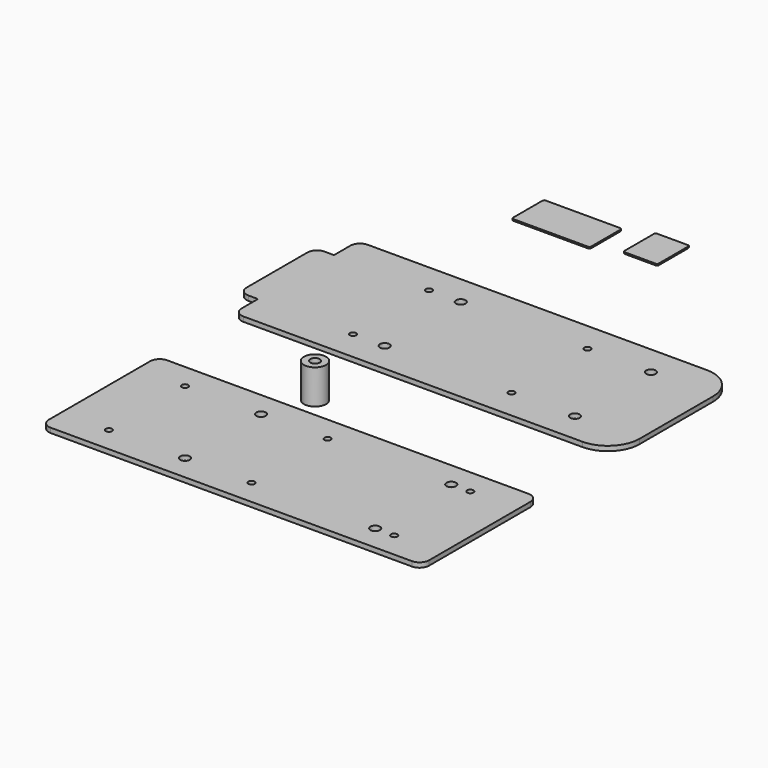
from build123d import *

# Parameters (mm, degrees)
F0_R     = 1
F0_R_2   = 1.5
F1_DEPTH = 1.5
F2_DEPTH = 1.5
F6_DEPTH = 0.5


with BuildPart() as f1:
    # F0 (on Top) → F1 (new body)
    with BuildSketch(Plane.XY):
        with BuildLine():
            Line((50, 64), (-57, 64))
            ThreePointArc((-57, 64), (-59.12132, 63.12132), (-60, 61))
            Line((-60, 61), (-60, 54.5))
            Line((-60, 54.5), (-63, 54.5))
            ThreePointArc((-63, 54.5), (-65.12132, 53.62132), (-66, 51.5))
            Line((-66, 51.5), (-66, 27.5))
            ThreePointArc((-66, 27.5), (-65.12132, 25.37868), (-63, 24.5))
            Line((-63, 24.5), (-60, 24.5))
            Line((-60, 24.5), (-60, 18))
            ThreePointArc((-60, 18), (-59.12132, 15.87868), (-57, 15))
            Line((-57, 15), (50, 15))
            ThreePointArc((50, 15), (57.071068, 17.928932), (60, 25))
            Line((60, 25), (60, 54))
            ThreePointArc((60, 54), (57.071068, 61.071068), (50, 64))
        make_face()
        with Locations((-30, 24.5)):
            Circle(F0_R, mode=Mode.SUBTRACT)
        with Locations((-20, 24.5)):
            Circle(F0_R_2, mode=Mode.SUBTRACT)
        with Locations((-30, 54.5)):
            Circle(F0_R, mode=Mode.SUBTRACT)
        with Locations((-20, 54.5)):
            Circle(F0_R_2, mode=Mode.SUBTRACT)
        with Locations((20, 24.5)):
            Circle(F0_R, mode=Mode.SUBTRACT)
        with Locations((40, 24.5)):
            Circle(F0_R_2, mode=Mode.SUBTRACT)
        with Locations((20, 54.5)):
            Circle(F0_R, mode=Mode.SUBTRACT)
        with Locations((40, 54.5)):
            Circle(F0_R_2, mode=Mode.SUBTRACT)
    extrude(amount=F1_DEPTH)


with BuildPart() as f2:
    # F0 (on Top) → F2 (new body)
    with BuildSketch(Plane.XY):
        with BuildLine():
            ThreePointArc((60, -18), (59.12132, -15.87868), (57, -15))
            Line((57, -15), (-57, -15))
            ThreePointArc((-57, -15), (-59.12132, -15.87868), (-60, -18))
            Line((-60, -18), (-60, -58))
            ThreePointArc((-60, -58), (-59.12132, -60.12132), (-57, -61))
            Line((-57, -61), (57, -61))
            ThreePointArc((57, -61), (59.12132, -60.12132), (60, -58))
            Line((60, -58), (60, -18))
        make_face()
        with Locations((-45, -53)):
            Circle(F0_R, mode=Mode.SUBTRACT)
        with Locations((-21, -53)):
            Circle(F0_R_2, mode=Mode.SUBTRACT)
        with Locations((-45, -23)):
            Circle(F0_R, mode=Mode.SUBTRACT)
        with Locations((-21, -23)):
            Circle(F0_R_2, mode=Mode.SUBTRACT)
        with Locations((0, -53)):
            Circle(F0_R, mode=Mode.SUBTRACT)
        with Locations((39, -53)):
            Circle(F0_R_2, mode=Mode.SUBTRACT)
        with Locations((45, -53)):
            Circle(F0_R, mode=Mode.SUBTRACT)
        with Locations((0, -23)):
            Circle(F0_R, mode=Mode.SUBTRACT)
        with Locations((39, -23)):
            Circle(F0_R_2, mode=Mode.SUBTRACT)
        with Locations((45, -23)):
            Circle(F0_R, mode=Mode.SUBTRACT)
    extrude(amount=F2_DEPTH)


with BuildPart() as f4:
    # F3 (on Front) → F4 (revolve)
    with BuildSketch(Plane.XZ):
        Polygon((-20.88518, 2.523314), (-22.38518, 2.523314), (-22.38518, -0.376686), (-20.88518, -0.376686), (-20.88518, -4.376686), (-18.88518, -4.376686), (-18.88518, 6.523314), (-20.88518, 6.523314), align=None)
    revolve(axis=Axis((-22.38518, 0, 1.073314), (0, 0, 1)))


with BuildPart() as f6:
    # F5 (on Top) → F6 (new body)
    with BuildSketch(Plane.XY):
        with BuildLine():
            ThreePointArc((-14.597902, 110.818345), (-14.744348, 111.171899), (-15.097902, 111.318345))
            Line((-15.097902, 111.318345), (-38.737902, 111.318345))
            ThreePointArc((-38.737902, 111.318345), (-39.091455, 111.171899), (-39.237902, 110.818345))
            Line((-39.237902, 110.818345), (-39.237902, 99.118345))
            ThreePointArc((-39.237902, 99.118345), (-39.091455, 98.764792), (-38.737902, 98.618345))
            Line((-38.737902, 98.618345), (-15.097902, 98.618345))
            ThreePointArc((-15.097902, 98.618345), (-14.744348, 98.764792), (-14.597902, 99.118345))
            Line((-14.597902, 99.118345), (-14.597902, 110.818345))
        make_face()
        with BuildLine():
            Line((3.562407, 114.657026), (-6.237593, 114.657026))
            ThreePointArc((-6.237593, 114.657026), (-6.591146, 114.51058), (-6.737593, 114.157026))
            Line((-6.737593, 114.157026), (-6.737593, 102.457026))
            ThreePointArc((-6.737593, 102.457026), (-6.591146, 102.103473), (-6.237593, 101.957026))
            Line((-6.237593, 101.957026), (3.562407, 101.957026))
            ThreePointArc((3.562407, 101.957026), (3.915961, 102.103473), (4.062407, 102.457026))
            Line((4.062407, 102.457026), (4.062407, 114.157026))
            ThreePointArc((4.062407, 114.157026), (3.915961, 114.51058), (3.562407, 114.657026))
        make_face()
    extrude(amount=F6_DEPTH)


solid = Compound([f1.part, f2.part, f4.part, f6.part])
